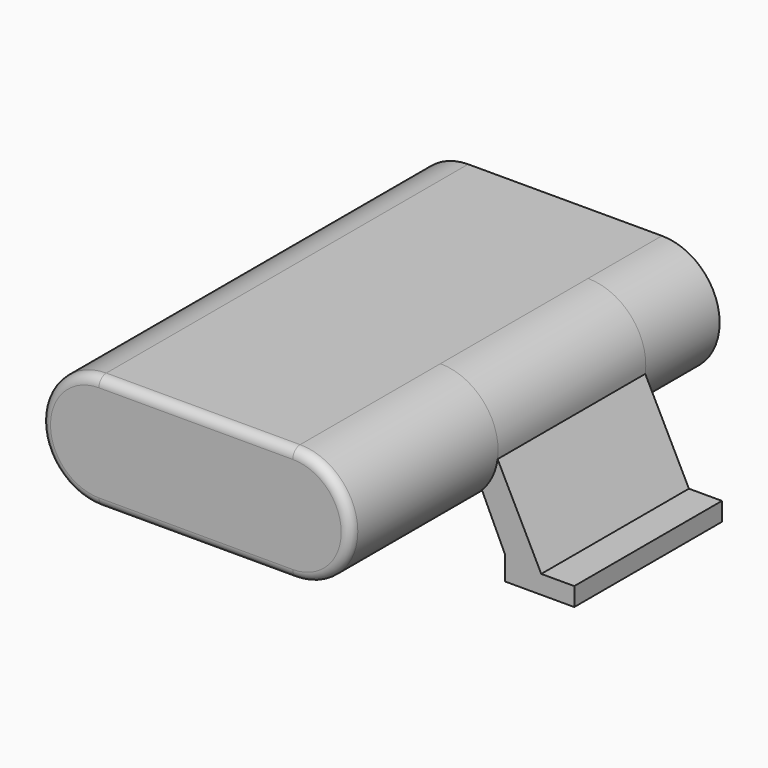
from build123d import *

# Parameters (mm, degrees)
F1_DEPTH = 40
F3_DEPTH = 40
F5_DEPTH = 20
F6_R     = 2


with BuildPart() as f1:
    # F0 (on Front) → F1 (new body)
    with BuildSketch(Plane.XZ):
        with BuildLine():
            Line((-21, -10.8208951545), (0, -10.8208951545))
            Line((0, -10.8208951545), (21, -10.8208951545))
            ThreePointArc((21, -10.8208951545), (25.8896090165, -9.8248824487), (30, -6.9955709409))
            ThreePointArc((30, -6.9955709409), (32.2508823643, -3.7676966034), (33.3867108999, 0))
            ThreePointArc((33.3867108999, 0), (30.4137880412, 9.9028871089), (21, 14.1791048455))
            Line((21, 14.1791048455), (0, 14.1791048455))
            Line((0, 14.1791048455), (-21, 14.1791048455))
            ThreePointArc((-21, 14.1791048455), (-30.4137880412, 9.9028871089), (-33.3867108999, 0))
            ThreePointArc((-33.3867108999, 0), (-32.2508823643, -3.7676966034), (-30, -6.9955709409))
            ThreePointArc((-30, -6.9955709409), (-25.8896090165, -9.8248824487), (-21, -10.8208951545))
        make_face()
        with BuildLine():
            ThreePointArc((33.3867108999, 0), (32.2508823643, -3.7676966034), (30, -6.9955709409))
            Line((30, -6.9955709409), (35, -17.6733862609))
            Line((35, -17.6733862609), (35, -22.8208951545))
            Line((35, -22.8208951545), (50, -22.8208951545))
            Line((50, -22.8208951545), (50, -18.8208951545))
            Line((50, -18.8208951545), (42.8475700319, -18.8208951545))
            Line((42.8475700319, -18.8208951545), (33.3867108999, 0))
        make_face()
        with BuildLine():
            Line((-35, -17.6733862609), (-30, -6.9955709409))
            ThreePointArc((-30, -6.9955709409), (-32.2508823643, -3.7676966034), (-33.3867108999, 0))
            Line((-33.3867108999, 0), (-42.8475700319, -18.8208951545))
            Line((-42.8475700319, -18.8208951545), (-50, -18.8208951545))
            Line((-50, -18.8208951545), (-50, -22.8208951545))
            Line((-50, -22.8208951545), (-35, -22.8208951545))
            Line((-35, -22.8208951545), (-35, -17.6733862609))
        make_face()
    extrude(amount=F1_DEPTH)

    # F2 (on face) → F3 (join)
    with BuildSketch(Plane.XZ.offset(40)):
        with BuildLine():
            Line((21, 14.1791048455), (-21, 14.1791048455))
            ThreePointArc((-21, 14.1791048455), (-33.5, 1.6791048455), (-21, -10.8208951545))
            Line((-21, -10.8208951545), (21, -10.8208951545))
            ThreePointArc((21, -10.8208951545), (33.5, 1.6791048455), (21, 14.1791048455))
        make_face()
    extrude(amount=F3_DEPTH)

    # F4 (on face) + F2 (on face) → F5 (join)
    with BuildSketch(Plane(origin=(0, 0, 0), x_dir=(-1, 0, 0), z_dir=(0, 1, 0))):
        with BuildLine():
            Line((-21, -10.8208951545), (21, -10.8208951545))
            ThreePointArc((21, -10.8208951545), (33.5, 1.6791048455), (21, 14.1791048455))
            Line((21, 14.1791048455), (-21, 14.1791048455))
            ThreePointArc((-21, 14.1791048455), (-33.5, 1.6791048455), (-21, -10.8208951545))
        make_face()
    with BuildSketch(Plane.XZ.offset(40)):
        with BuildLine():
            Line((21, 14.1791048455), (-21, 14.1791048455))
            ThreePointArc((-21, 14.1791048455), (-33.5, 1.6791048455), (-21, -10.8208951545))
            Line((-21, -10.8208951545), (21, -10.8208951545))
            ThreePointArc((21, -10.8208951545), (33.5, 1.6791048455), (21, 14.1791048455))
        make_face()
    extrude(amount=F5_DEPTH, dir=(0, 1, 0))

    # F6
    f6_edges = [f1.edges().sort_by_distance(p)[0] for p in [
        (0, -80, 14.179105),
        (33.5, -80, 1.679105),
        (0, -80, -10.820895),
        (-33.5, -80, 1.679105),
    ]]
    fillet(f6_edges, radius=F6_R)


solid = f1.part
